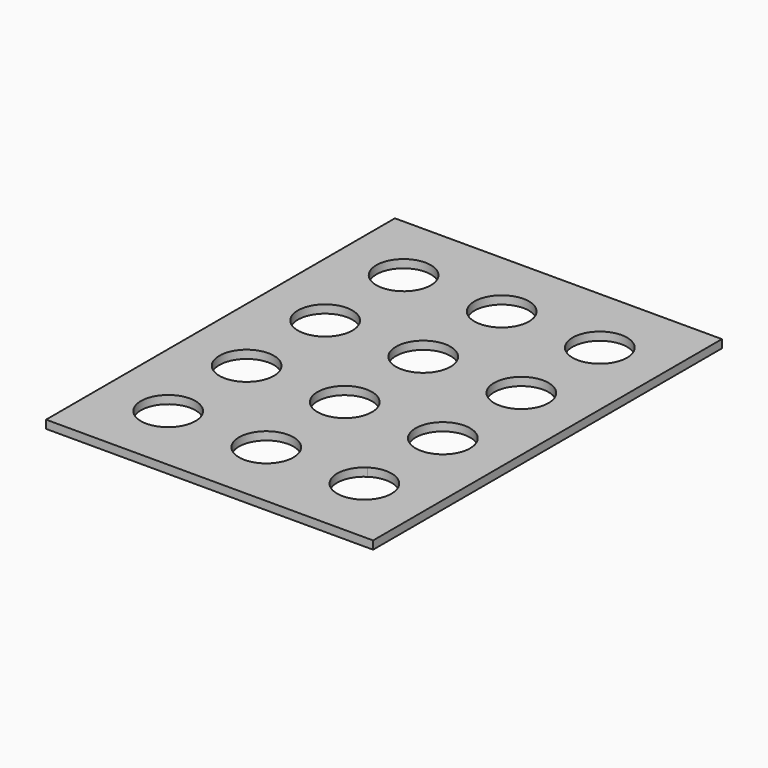
from build123d import *

# Parameters (mm, degrees)
F0_W     = 381
F0_H     = 508
F0_R     = 31.75
F1_DEPTH = 9.525


with BuildPart() as f1:
    # F0 (on Top) → F1 (new body)
    with BuildSketch(Plane.XY):
        with BuildLine():
            ThreePointArc((-96.688269, 145.032403), (-86.306831, 156.468511), (-82.55, 171.45))
            ThreePointArc((-82.55, 171.45), (-142.293169, 186.431489), (-96.688269, 145.032403))
        make_face()
        with BuildLine():
            ThreePointArc((146.05, -171.45), (129.281489, -143.456831), (96.688269, -145.032403))
            ThreePointArc((96.688269, -145.032403), (99.318511, -199.443169), (146.05, -171.45))
        make_face()
        Rectangle(F0_W, F0_H)
        with Locations((-114.3, -171.45)):
            Circle(F0_R, mode=Mode.SUBTRACT)
        with Locations((-114.3, -57.15)):
            Circle(F0_R, mode=Mode.SUBTRACT)
        with Locations((0, -171.45)):
            Circle(F0_R, mode=Mode.SUBTRACT)
        with BuildLine():
            ThreePointArc((146.05, -171.45), (99.318511, -199.443169), (96.688269, -145.032403))
            ThreePointArc((96.688269, -145.032403), (129.281489, -143.456831), (146.05, -171.45))
        make_face(mode=Mode.SUBTRACT)
        with BuildLine():
            ThreePointArc((31.75, -57.15), (-30.120695, -67.190232), (25.4, -38.1))
            ThreePointArc((25.4, -38.1), (26.417597, -39.538269), (27.353846, -41.030769))
            ThreePointArc((27.353846, -41.030769), (30.631251, -48.796022), (31.75, -57.15))
        make_face(mode=Mode.SUBTRACT)
        with Locations((114.3, -57.15)):
            Circle(F0_R, mode=Mode.SUBTRACT)
        with Locations((-114.3, 57.15)):
            Circle(F0_R, mode=Mode.SUBTRACT)
        with BuildLine():
            ThreePointArc((-96.688269, 145.032403), (-142.293169, 186.431489), (-82.55, 171.45))
            ThreePointArc((-82.55, 171.45), (-86.306831, 156.468511), (-96.688269, 145.032403))
        make_face(mode=Mode.SUBTRACT)
        with BuildLine():
            ThreePointArc((-25.4, 38.1), (-26.417597, 39.538269), (-27.353846, 41.030769))
            ThreePointArc((-27.353846, 41.030769), (-8.353978, 87.781251), (31.75, 57.15))
            ThreePointArc((31.75, 57.15), (10.040232, 27.029305), (-25.4, 38.1))
        make_face(mode=Mode.SUBTRACT)
        with Locations((114.3, 57.15)):
            Circle(F0_R, mode=Mode.SUBTRACT)
        with Locations((0, 171.45)):
            Circle(F0_R, mode=Mode.SUBTRACT)
        with Locations((114.3, 171.45)):
            Circle(F0_R, mode=Mode.SUBTRACT)
    extrude(amount=F1_DEPTH)


solid = f1.part
